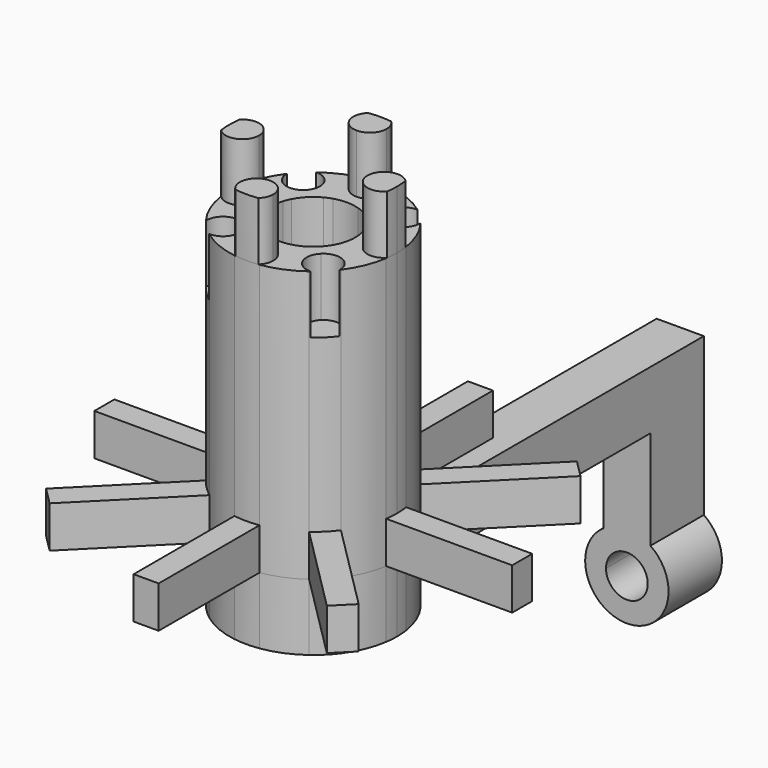
from build123d import *

# Parameters (mm, degrees)
F2_DEPTH  = 32.5
F3_DEPTH  = 5
F5_DEPTH  = 7
F6_DEPTH  = 7
F7_DEPTH  = 8
F0_W      = 5.6568542495
F0_H      = 7
F8_DEPTH  = 55
F9_DEPTH  = 25
F10_W     = 5.6568542495
F10_H     = 8
F11_DEPTH = 20
F12_DEPTH = 8
F14_DEPTH = 8
F15_DEPTH = 8


with BuildPart() as f2:
    # F1 (on Top) → F2 (new body)
    with BuildSketch(Plane.XY):
        with BuildLine():
            Line((9.937429245, -1.5), (4.8220846115, -1.5))
            ThreePointArc((4.8220846115, -1.5), (4.6655916392, -1.9325513334), (4.4703889, -2.3490685564))
            Line((4.4703889, -2.3490685564), (8.0874837785, -5.9661634349))
            ThreePointArc((8.0874837785, -5.9661634349), (9.2849893017, -3.8459684953), (9.937429245, -1.5))
        make_face()
        with BuildLine():
            Line((8.0874837785, -5.9661634349), (4.4703889, -2.3490685564))
            ThreePointArc((4.4703889, -2.3490685564), (3.570889245, -3.570889245), (2.3490685564, -4.4703889))
            Line((2.3490685564, -4.4703889), (5.9661634349, -8.0874837785))
            ThreePointArc((5.9661634349, -8.0874837785), (7.1064231509, -7.1064231509), (8.0874837785, -5.9661634349))
        make_face()
        with BuildLine():
            Line((5.9661634349, -8.0874837785), (2.3490685564, -4.4703889))
            ThreePointArc((2.3490685564, -4.4703889), (1.9325513334, -4.6655916392), (1.5, -4.8220846115))
            Line((1.5, -4.8220846115), (1.5, -7.3994932259))
            Line((1.5, -7.3994932259), (1.5, -9.937429245))
            ThreePointArc((1.5, -9.937429245), (3.8459684953, -9.2849893017), (5.9661634349, -8.0874837785))
        make_face()
        with BuildLine():
            Line((1.5, -7.3994932259), (1.5, -4.8220846115))
            ThreePointArc((1.5, -4.8220846115), (0, -5.05), (-1.5, -4.8220846115))
            Line((-1.5, -4.8220846115), (-1.5, -7.3994932259))
            Line((-1.5, -7.3994932259), (1.5, -7.3994932259))
        make_face()
        with BuildLine():
            Line((-1.5, -7.3994932259), (-1.5, -4.8220846115))
            ThreePointArc((-1.5, -4.8220846115), (-1.9325513334, -4.6655916392), (-2.3490685564, -4.4703889))
            Line((-2.3490685564, -4.4703889), (-5.9661634349, -8.0874837785))
            ThreePointArc((-5.9661634349, -8.0874837785), (-3.8459684953, -9.2849893017), (-1.5, -9.937429245))
            Line((-1.5, -9.937429245), (-1.5, -7.3994932259))
        make_face()
        with BuildLine():
            Line((-5.9661634349, -8.0874837785), (-2.3490685564, -4.4703889))
            ThreePointArc((-2.3490685564, -4.4703889), (-3.570889245, -3.570889245), (-4.4703889, -2.3490685564))
            Line((-4.4703889, -2.3490685564), (-8.0874837785, -5.9661634349))
            ThreePointArc((-8.0874837785, -5.9661634349), (-7.1064231509, -7.1064231509), (-5.9661634349, -8.0874837785))
        make_face()
        with BuildLine():
            Line((-8.0874837785, -5.9661634349), (-4.4703889, -2.3490685564))
            ThreePointArc((-4.4703889, -2.3490685564), (-4.6655916392, -1.9325513334), (-4.8220846115, -1.5))
            Line((-4.8220846115, -1.5), (-9.937429245, -1.5))
            ThreePointArc((-9.937429245, -1.5), (-9.2849893017, -3.8459684953), (-8.0874837785, -5.9661634349))
        make_face()
        with BuildLine():
            ThreePointArc((-4.8220846115, -1.5), (-5.05, 0), (-4.8220846115, 1.5))
            Line((-4.8220846115, 1.5), (-9.937429245, 1.5))
            ThreePointArc((-9.937429245, 1.5), (-10.05, 0), (-9.937429245, -1.5))
            Line((-9.937429245, -1.5), (-4.8220846115, -1.5))
        make_face()
        with BuildLine():
            ThreePointArc((-4.8220846115, 1.5), (-4.6655916392, 1.9325513334), (-4.4703889, 2.3490685564))
            Line((-4.4703889, 2.3490685564), (-8.0874837785, 5.9661634349))
            ThreePointArc((-8.0874837785, 5.9661634349), (-9.2849893017, 3.8459684953), (-9.937429245, 1.5))
            Line((-9.937429245, 1.5), (-4.8220846115, 1.5))
        make_face()
        with BuildLine():
            ThreePointArc((-4.4703889, 2.3490685564), (-3.570889245, 3.570889245), (-2.3490685564, 4.4703889))
            Line((-2.3490685564, 4.4703889), (-5.9661634349, 8.0874837785))
            ThreePointArc((-5.9661634349, 8.0874837785), (-7.1064231509, 7.1064231509), (-8.0874837785, 5.9661634349))
            Line((-8.0874837785, 5.9661634349), (-4.4703889, 2.3490685564))
        make_face()
        with BuildLine():
            ThreePointArc((-2.3490685564, 4.4703889), (-1.9325513334, 4.6655916392), (-1.5, 4.8220846115))
            Line((-1.5, 4.8220846115), (-1.5, 7.3994932259))
            Line((-1.5, 7.3994932259), (-1.5, 9.937429245))
            ThreePointArc((-1.5, 9.937429245), (-3.8459684953, 9.2849893017), (-5.9661634349, 8.0874837785))
            Line((-5.9661634349, 8.0874837785), (-2.3490685564, 4.4703889))
        make_face()
        with BuildLine():
            ThreePointArc((-1.5, 4.8220846115), (0, 5.05), (1.5, 4.8220846115))
            Line((1.5, 4.8220846115), (1.5, 7.3994932259))
            Line((1.5, 7.3994932259), (-1.5, 7.3994932259))
            Line((-1.5, 7.3994932259), (-1.5, 4.8220846115))
        make_face()
        with BuildLine():
            ThreePointArc((1.5, 4.8220846115), (1.9325513334, 4.6655916392), (2.3490685564, 4.4703889))
            Line((2.3490685564, 4.4703889), (5.9661634349, 8.0874837785))
            ThreePointArc((5.9661634349, 8.0874837785), (3.8459684953, 9.2849893017), (1.5, 9.937429245))
            Line((1.5, 9.937429245), (1.5, 7.3994932259))
            Line((1.5, 7.3994932259), (1.5, 4.8220846115))
        make_face()
        with BuildLine():
            ThreePointArc((2.3490685564, 4.4703889), (3.570889245, 3.570889245), (4.4703889, 2.3490685564))
            Line((4.4703889, 2.3490685564), (8.0874837785, 5.9661634349))
            ThreePointArc((8.0874837785, 5.9661634349), (7.1064231509, 7.1064231509), (5.9661634349, 8.0874837785))
            Line((5.9661634349, 8.0874837785), (2.3490685564, 4.4703889))
        make_face()
        with BuildLine():
            ThreePointArc((4.4703889, 2.3490685564), (4.6655916392, 1.9325513334), (4.8220846115, 1.5))
            Line((4.8220846115, 1.5), (9.937429245, 1.5))
            ThreePointArc((9.937429245, 1.5), (9.2849893017, 3.8459684953), (8.0874837785, 5.9661634349))
            Line((8.0874837785, 5.9661634349), (4.4703889, 2.3490685564))
        make_face()
        with BuildLine():
            ThreePointArc((4.8220846115, 1.5), (4.9926960296, 0.7586081703), (5.05, 0))
            ThreePointArc((5.05, 0), (4.9926960296, -0.7586081703), (4.8220846115, -1.5))
            Line((4.8220846115, -1.5), (9.937429245, -1.5))
            ThreePointArc((9.937429245, -1.5), (10.021817797, -0.7521090637), (10.05, 0))
            ThreePointArc((10.05, 0), (10.021817797, 0.7521090637), (9.937429245, 1.5))
            Line((9.937429245, 1.5), (4.8220846115, 1.5))
        make_face()
        with BuildLine():
            Line((1.5, -9.937429245), (1.5, -7.3994932259))
            Line((1.5, -7.3994932259), (-1.5, -7.3994932259))
            Line((-1.5, -7.3994932259), (-1.5, -9.937429245))
            ThreePointArc((-1.5, -9.937429245), (0, -10.05), (1.5, -9.937429245))
        make_face()
        with BuildLine():
            Line((-1.5, 7.3994932259), (1.5, 7.3994932259))
            Line((1.5, 7.3994932259), (1.5, 9.937429245))
            ThreePointArc((1.5, 9.937429245), (0, 10.05), (-1.5, 9.937429245))
            Line((-1.5, 9.937429245), (-1.5, 7.3994932259))
        make_face()
    extrude(amount=F2_DEPTH)

    # F1 (on Top) → F3 (join)
    with BuildSketch(Plane.XY):
        with BuildLine():
            ThreePointArc((-9.937429245, -1.5), (-10.05, 0), (-9.937429245, 1.5))
            Line((-9.937429245, 1.5), (-25.05, 1.5))
            Line((-25.05, 1.5), (-25.05, -1.5))
            Line((-25.05, -1.5), (-9.937429245, -1.5))
        make_face()
        with BuildLine():
            Line((-16.6205798865, -18.7419002301), (-5.9661634349, -8.0874837785))
            ThreePointArc((-5.9661634349, -8.0874837785), (-7.1064231509, -7.1064231509), (-8.0874837785, -5.9661634349))
            Line((-8.0874837785, -5.9661634349), (-18.7419002301, -16.6205798865))
            Line((-18.7419002301, -16.6205798865), (-16.6205798865, -18.7419002301))
        make_face()
        with BuildLine():
            Line((1.5, -25.05), (1.5, -9.937429245))
            ThreePointArc((1.5, -9.937429245), (0, -10.05), (-1.5, -9.937429245))
            Line((-1.5, -9.937429245), (-1.5, -25.05))
            Line((-1.5, -25.05), (1.5, -25.05))
        make_face()
        with BuildLine():
            Line((18.7419002301, -16.6205798865), (8.0874837785, -5.9661634349))
            ThreePointArc((8.0874837785, -5.9661634349), (7.1064231509, -7.1064231509), (5.9661634349, -8.0874837785))
            Line((5.9661634349, -8.0874837785), (16.6205798865, -18.7419002301))
            Line((16.6205798865, -18.7419002301), (18.7419002301, -16.6205798865))
        make_face()
        with BuildLine():
            Line((25.05, 1.5), (9.937429245, 1.5))
            ThreePointArc((9.937429245, 1.5), (10.021817797, 0.7521090637), (10.05, 0))
            ThreePointArc((10.05, 0), (10.021817797, -0.7521090637), (9.937429245, -1.5))
            Line((9.937429245, -1.5), (25.05, -1.5))
            Line((25.05, -1.5), (25.05, 1.5))
        make_face()
        with BuildLine():
            ThreePointArc((5.9661634349, 8.0874837785), (7.1064231509, 7.1064231509), (8.0874837785, 5.9661634349))
            Line((8.0874837785, 5.9661634349), (18.7419002301, 16.6205798865))
            Line((18.7419002301, 16.6205798865), (16.6205798865, 18.7419002301))
            Line((16.6205798865, 18.7419002301), (5.9661634349, 8.0874837785))
        make_face()
        with BuildLine():
            ThreePointArc((-1.5, 9.937429245), (0, 10.05), (1.5, 9.937429245))
            Line((1.5, 9.937429245), (1.5, 25.05))
            Line((1.5, 25.05), (-1.5, 25.05))
            Line((-1.5, 25.05), (-1.5, 9.937429245))
        make_face()
        with BuildLine():
            ThreePointArc((-8.0874837785, 5.9661634349), (-7.1064231509, 7.1064231509), (-5.9661634349, 8.0874837785))
            Line((-5.9661634349, 8.0874837785), (-16.6205798865, 18.7419002301))
            Line((-16.6205798865, 18.7419002301), (-18.7419002301, 16.6205798865))
            Line((-18.7419002301, 16.6205798865), (-8.0874837785, 5.9661634349))
        make_face()
    extrude(amount=F3_DEPTH)

    # F4 (on face) → F5 (join)
    with BuildSketch(Plane.XY.offset(32.5)):
        with BuildLine():
            ThreePointArc((2, -8.5), (1.4142135624, -7.0857864376), (0, -6.5))
            ThreePointArc((0, -6.5), (-1.8590399167, -7.7624563821), (-1.3711230259, -9.9560294118))
            ThreePointArc((-1.3711230259, -9.9560294118), (0, -10.05), (1.3711230259, -9.9560294118))
            ThreePointArc((1.3711230259, -9.9560294118), (1.8360618252, -9.293017638), (2, -8.5))
        make_face()
        with BuildLine():
            ThreePointArc((-1.3711230259, 9.9560294118), (-1.8590399167, 7.7624563821), (0, 6.5))
            ThreePointArc((0, 6.5), (1.4142135624, 7.0857864376), (2, 8.5))
            ThreePointArc((2, 8.5), (1.8360618252, 9.293017638), (1.3711230259, 9.9560294118))
            ThreePointArc((1.3711230259, 9.9560294118), (0, 10.05), (-1.3711230259, 9.9560294118))
        make_face()
        with BuildLine():
            ThreePointArc((-9.9560294118, -1.3711230259), (-7.7624563821, -1.8590399167), (-6.5, 0))
            ThreePointArc((-6.5, 0), (-7.7624563821, 1.8590399167), (-9.9560294118, 1.3711230259))
            ThreePointArc((-9.9560294118, 1.3711230259), (-10.05, 0), (-9.9560294118, -1.3711230259))
        make_face()
        with BuildLine():
            ThreePointArc((9.9560294118, 1.3711230259), (7.7624563821, 1.8590399167), (6.5, 0))
            ThreePointArc((6.5, 0), (7.7624563821, -1.8590399167), (9.9560294118, -1.3711230259))
            ThreePointArc((9.9560294118, -1.3711230259), (10.0264798306, -0.6871697068), (10.05, 0))
            ThreePointArc((10.05, 0), (10.0264798306, 0.6871697068), (9.9560294118, 1.3711230259))
        make_face()
    extrude(amount=F5_DEPTH)

    # F4 (on face) → F6 (cut)
    with BuildSketch(Plane.XY.offset(32.5)):
        with BuildLine():
            ThreePointArc((-4.0104076401, -6.0104076401), (-4.1626485751, -5.2450407754), (-4.5961940777, -4.5961940777))
            ThreePointArc((-4.5961940777, -4.5961940777), (-6.8034252781, -4.1743458149), (-8.0095063002, -6.0704455213))
            ThreePointArc((-8.0095063002, -6.0704455213), (-7.1064231509, -7.1064231509), (-6.0704455213, -8.0095063002))
            ThreePointArc((-6.0704455213, -8.0095063002), (-4.617582411, -7.445690846), (-4.0104076401, -6.0104076401))
        make_face()
        with BuildLine():
            ThreePointArc((8.0104076401, -6.0104076401), (6.7757745048, -4.1626485751), (4.5961940777, -4.5961940777))
            ThreePointArc((4.5961940777, -4.5961940777), (4.1743458149, -6.8034252781), (6.0704455213, -8.0095063002))
            ThreePointArc((6.0704455213, -8.0095063002), (7.1064231509, -7.1064231509), (8.0095063002, -6.0704455213))
            ThreePointArc((8.0095063002, -6.0704455213), (8.0101822924, -6.0404299634), (8.0104076401, -6.0104076401))
        make_face()
        with BuildLine():
            ThreePointArc((6.0704455213, 8.0095063002), (4.1743458149, 6.8034252781), (4.5961940777, 4.5961940777))
            ThreePointArc((4.5961940777, 4.5961940777), (6.7757745048, 4.1626485751), (8.0104076401, 6.0104076401))
            ThreePointArc((8.0104076401, 6.0104076401), (8.0101822924, 6.0404299634), (8.0095063002, 6.0704455213))
            ThreePointArc((8.0095063002, 6.0704455213), (7.1064231509, 7.1064231509), (6.0704455213, 8.0095063002))
        make_face()
        with BuildLine():
            ThreePointArc((-8.0095063002, 6.0704455213), (-6.8034252781, 4.1743458149), (-4.5961940777, 4.5961940777))
            ThreePointArc((-4.5961940777, 4.5961940777), (-4.1626485751, 5.2450407754), (-4.0104076401, 6.0104076401))
            ThreePointArc((-4.0104076401, 6.0104076401), (-4.617582411, 7.445690846), (-6.0704455213, 8.0095063002))
            ThreePointArc((-6.0704455213, 8.0095063002), (-7.1064231509, 7.1064231509), (-8.0095063002, 6.0704455213))
        make_face()
    extrude(amount=-F6_DEPTH, mode=Mode.SUBTRACT)


with BuildPart() as f7:
    # F1 (on Top) → F7 (new body)
    with BuildSketch(Plane.XY):
        with BuildLine():
            Line((-8.0874837785, -5.9661634349), (-4.4703889, -2.3490685564))
            ThreePointArc((-4.4703889, -2.3490685564), (-4.6655916392, -1.9325513334), (-4.8220846115, -1.5))
            Line((-4.8220846115, -1.5), (-9.937429245, -1.5))
            ThreePointArc((-9.937429245, -1.5), (-9.2849893017, -3.8459684953), (-8.0874837785, -5.9661634349))
        make_face()
        with BuildLine():
            Line((-5.9661634349, -8.0874837785), (-2.3490685564, -4.4703889))
            ThreePointArc((-2.3490685564, -4.4703889), (-3.570889245, -3.570889245), (-4.4703889, -2.3490685564))
            Line((-4.4703889, -2.3490685564), (-8.0874837785, -5.9661634349))
            ThreePointArc((-8.0874837785, -5.9661634349), (-7.1064231509, -7.1064231509), (-5.9661634349, -8.0874837785))
        make_face()
        with BuildLine():
            Line((-1.5, -7.3994932259), (-1.5, -4.8220846115))
            ThreePointArc((-1.5, -4.8220846115), (-1.9325513334, -4.6655916392), (-2.3490685564, -4.4703889))
            Line((-2.3490685564, -4.4703889), (-5.9661634349, -8.0874837785))
            ThreePointArc((-5.9661634349, -8.0874837785), (-3.8459684953, -9.2849893017), (-1.5, -9.937429245))
            Line((-1.5, -9.937429245), (-1.5, -7.3994932259))
        make_face()
        with BuildLine():
            Line((5.9661634349, -8.0874837785), (2.3490685564, -4.4703889))
            ThreePointArc((2.3490685564, -4.4703889), (1.9325513334, -4.6655916392), (1.5, -4.8220846115))
            Line((1.5, -4.8220846115), (1.5, -7.3994932259))
            Line((1.5, -7.3994932259), (1.5, -9.937429245))
            ThreePointArc((1.5, -9.937429245), (3.8459684953, -9.2849893017), (5.9661634349, -8.0874837785))
        make_face()
        with BuildLine():
            Line((8.0874837785, -5.9661634349), (4.4703889, -2.3490685564))
            ThreePointArc((4.4703889, -2.3490685564), (3.570889245, -3.570889245), (2.3490685564, -4.4703889))
            Line((2.3490685564, -4.4703889), (5.9661634349, -8.0874837785))
            ThreePointArc((5.9661634349, -8.0874837785), (7.1064231509, -7.1064231509), (8.0874837785, -5.9661634349))
        make_face()
        with BuildLine():
            Line((9.937429245, -1.5), (4.8220846115, -1.5))
            ThreePointArc((4.8220846115, -1.5), (4.6655916392, -1.9325513334), (4.4703889, -2.3490685564))
            Line((4.4703889, -2.3490685564), (8.0874837785, -5.9661634349))
            ThreePointArc((8.0874837785, -5.9661634349), (9.2849893017, -3.8459684953), (9.937429245, -1.5))
        make_face()
        with BuildLine():
            ThreePointArc((4.8220846115, 1.5), (4.9926960296, 0.7586081703), (5.05, 0))
            ThreePointArc((5.05, 0), (4.9926960296, -0.7586081703), (4.8220846115, -1.5))
            Line((4.8220846115, -1.5), (9.937429245, -1.5))
            ThreePointArc((9.937429245, -1.5), (10.021817797, -0.7521090637), (10.05, 0))
            ThreePointArc((10.05, 0), (10.021817797, 0.7521090637), (9.937429245, 1.5))
            Line((9.937429245, 1.5), (4.8220846115, 1.5))
        make_face()
        with BuildLine():
            ThreePointArc((4.4703889, 2.3490685564), (4.6655916392, 1.9325513334), (4.8220846115, 1.5))
            Line((4.8220846115, 1.5), (9.937429245, 1.5))
            ThreePointArc((9.937429245, 1.5), (9.2849893017, 3.8459684953), (8.0874837785, 5.9661634349))
            Line((8.0874837785, 5.9661634349), (4.4703889, 2.3490685564))
        make_face()
        with BuildLine():
            ThreePointArc((2.3490685564, 4.4703889), (3.570889245, 3.570889245), (4.4703889, 2.3490685564))
            Line((4.4703889, 2.3490685564), (8.0874837785, 5.9661634349))
            ThreePointArc((8.0874837785, 5.9661634349), (7.1064231509, 7.1064231509), (5.9661634349, 8.0874837785))
            Line((5.9661634349, 8.0874837785), (2.3490685564, 4.4703889))
        make_face()
        with BuildLine():
            ThreePointArc((1.5, 4.8220846115), (1.9325513334, 4.6655916392), (2.3490685564, 4.4703889))
            Line((2.3490685564, 4.4703889), (5.9661634349, 8.0874837785))
            ThreePointArc((5.9661634349, 8.0874837785), (3.8459684953, 9.2849893017), (1.5, 9.937429245))
            Line((1.5, 9.937429245), (1.5, 7.3994932259))
            Line((1.5, 7.3994932259), (1.5, 4.8220846115))
        make_face()
        with BuildLine():
            ThreePointArc((-2.3490685564, 4.4703889), (-1.9325513334, 4.6655916392), (-1.5, 4.8220846115))
            Line((-1.5, 4.8220846115), (-1.5, 7.3994932259))
            Line((-1.5, 7.3994932259), (-1.5, 9.937429245))
            ThreePointArc((-1.5, 9.937429245), (-3.8459684953, 9.2849893017), (-5.9661634349, 8.0874837785))
            Line((-5.9661634349, 8.0874837785), (-2.3490685564, 4.4703889))
        make_face()
        with BuildLine():
            ThreePointArc((-4.4703889, 2.3490685564), (-3.570889245, 3.570889245), (-2.3490685564, 4.4703889))
            Line((-2.3490685564, 4.4703889), (-5.9661634349, 8.0874837785))
            ThreePointArc((-5.9661634349, 8.0874837785), (-7.1064231509, 7.1064231509), (-8.0874837785, 5.9661634349))
            Line((-8.0874837785, 5.9661634349), (-4.4703889, 2.3490685564))
        make_face()
        with BuildLine():
            ThreePointArc((-4.8220846115, 1.5), (-4.6655916392, 1.9325513334), (-4.4703889, 2.3490685564))
            Line((-4.4703889, 2.3490685564), (-8.0874837785, 5.9661634349))
            ThreePointArc((-8.0874837785, 5.9661634349), (-9.2849893017, 3.8459684953), (-9.937429245, 1.5))
            Line((-9.937429245, 1.5), (-4.8220846115, 1.5))
        make_face()
        with BuildLine():
            ThreePointArc((-4.8220846115, -1.5), (-5.05, 0), (-4.8220846115, 1.5))
            Line((-4.8220846115, 1.5), (-9.937429245, 1.5))
            ThreePointArc((-9.937429245, 1.5), (-10.05, 0), (-9.937429245, -1.5))
            Line((-9.937429245, -1.5), (-4.8220846115, -1.5))
        make_face()
        with BuildLine():
            Line((-1.5, 7.3994932259), (1.5, 7.3994932259))
            Line((1.5, 7.3994932259), (1.5, 9.937429245))
            ThreePointArc((1.5, 9.937429245), (0, 10.05), (-1.5, 9.937429245))
            Line((-1.5, 9.937429245), (-1.5, 7.3994932259))
        make_face()
        with BuildLine():
            Line((1.5, -9.937429245), (1.5, -7.3994932259))
            Line((1.5, -7.3994932259), (-1.5, -7.3994932259))
            Line((-1.5, -7.3994932259), (-1.5, -9.937429245))
            ThreePointArc((-1.5, -9.937429245), (0, -10.05), (1.5, -9.937429245))
        make_face()
    extrude(amount=-F7_DEPTH)

    # F0 (on Front) → F8 (join)
    with BuildSketch(Plane.XZ):
        with Locations((0, -4.5)):
            Rectangle(F0_W, F0_H)
    extrude(amount=-F8_DEPTH)

    # F1 (on Top) → F9 (cut)
    with BuildSketch(Plane.XY):
        Polygon((2.1213203436, 0), (3.6213203436, 1.5), (1.5, 1.5), (1.5, 0.6213203436), align=None)
        with BuildLine():
            ThreePointArc((-4.4703889, -2.3490685564), (-3.570889245, -3.570889245), (-2.3490685564, -4.4703889))
            Line((-2.3490685564, -4.4703889), (-1.5, -3.6213203436))
            Line((-1.5, -3.6213203436), (-1.5, -1.5))
            Line((-1.5, -1.5), (-3.6213203436, -1.5))
            Line((-3.6213203436, -1.5), (-4.4703889, -2.3490685564))
        make_face()
        with BuildLine():
            Line((-2.1213203436, 0), (-3.6213203436, 1.5))
            Line((-3.6213203436, 1.5), (-4.8220846115, 1.5))
            ThreePointArc((-4.8220846115, 1.5), (-5.05, 0), (-4.8220846115, -1.5))
            Line((-4.8220846115, -1.5), (-3.6213203436, -1.5))
            Line((-3.6213203436, -1.5), (-2.1213203436, 0))
        make_face()
        Polygon((-1.5, 0.6213203436), (-1.5, 1.5), (-3.6213203436, 1.5), (-2.1213203436, 0), align=None)
        with BuildLine():
            Line((-1.5, 3.6213203436), (-2.3490685564, 4.4703889))
            ThreePointArc((-2.3490685564, 4.4703889), (-3.570889245, 3.570889245), (-4.4703889, 2.3490685564))
            Line((-4.4703889, 2.3490685564), (-3.6213203436, 1.5))
            Line((-3.6213203436, 1.5), (-1.5, 1.5))
            Line((-1.5, 1.5), (-1.5, 3.6213203436))
        make_face()
        Polygon((-0.6213203436, 1.5), (0, 2.1213203436), (-1.5, 3.6213203436), (-1.5, 1.5), align=None)
        with BuildLine():
            Line((1.5, 3.6213203436), (1.5, 4.8220846115))
            ThreePointArc((1.5, 4.8220846115), (0, 5.05), (-1.5, 4.8220846115))
            Line((-1.5, 4.8220846115), (-1.5, 3.6213203436))
            Line((-1.5, 3.6213203436), (0, 2.1213203436))
            Line((0, 2.1213203436), (1.5, 3.6213203436))
        make_face()
        Polygon((0.6213203436, 1.5), (1.5, 1.5), (1.5, 3.6213203436), (0, 2.1213203436), align=None)
        with BuildLine():
            Line((3.6213203436, 1.5), (4.4703889, 2.3490685564))
            ThreePointArc((4.4703889, 2.3490685564), (3.570889245, 3.570889245), (2.3490685564, 4.4703889))
            Line((2.3490685564, 4.4703889), (1.5, 3.6213203436))
            Line((1.5, 3.6213203436), (1.5, 1.5))
            Line((1.5, 1.5), (3.6213203436, 1.5))
        make_face()
        with BuildLine():
            Line((1.5, 3.6213203436), (2.3490685564, 4.4703889))
            ThreePointArc((2.3490685564, 4.4703889), (1.9325513334, 4.6655916392), (1.5, 4.8220846115))
            Line((1.5, 4.8220846115), (1.5, 3.6213203436))
        make_face()
        with BuildLine():
            Line((-1.5, 3.6213203436), (-1.5, 4.8220846115))
            ThreePointArc((-1.5, 4.8220846115), (-1.9325513334, 4.6655916392), (-2.3490685564, 4.4703889))
            Line((-2.3490685564, 4.4703889), (-1.5, 3.6213203436))
        make_face()
        Polygon((1.5, 0.6213203436), (1.5, 1.5), (0.6213203436, 1.5), align=None)
        Polygon((-0.6213203436, 1.5), (0.6213203436, 1.5), (0, 2.1213203436), align=None)
        Polygon((-1.5, 0.6213203436), (-0.6213203436, 1.5), (-1.5, 1.5), align=None)
        Polygon((1.5, -0.6213203436), (1.5, 0.6213203436), (0.6213203436, 1.5), (-0.6213203436, 1.5), (-1.5, 0.6213203436), (-1.5, -0.6213203436), (-0.6213203436, -1.5), (0.6213203436, -1.5), align=None)
        Polygon((-1.5, -1.5), (-0.6213203436, -1.5), (-1.5, -0.6213203436), align=None)
        Polygon((-3.6213203436, -1.5), (-1.5, -1.5), (-1.5, -0.6213203436), (-2.1213203436, 0), align=None)
        Polygon((-1.5, -0.6213203436), (-1.5, 0.6213203436), (-2.1213203436, 0), align=None)
        Polygon((-1.5, -3.6213203436), (0, -2.1213203436), (-0.6213203436, -1.5), (-1.5, -1.5), align=None)
        Polygon((1.5, -3.6213203436), (1.5, -1.5), (0.6213203436, -1.5), (0, -2.1213203436), align=None)
        Polygon((0, -2.1213203436), (0.6213203436, -1.5), (-0.6213203436, -1.5), align=None)
        with BuildLine():
            ThreePointArc((2.3490685564, -4.4703889), (3.570889245, -3.570889245), (4.4703889, -2.3490685564))
            Line((4.4703889, -2.3490685564), (3.6213203436, -1.5))
            Line((3.6213203436, -1.5), (1.5, -1.5))
            Line((1.5, -1.5), (1.5, -3.6213203436))
            Line((1.5, -3.6213203436), (2.3490685564, -4.4703889))
        make_face()
        Polygon((1.5, -1.5), (3.6213203436, -1.5), (2.1213203436, 0), (1.5, -0.6213203436), align=None)
        Polygon((0.6213203436, -1.5), (1.5, -1.5), (1.5, -0.6213203436), align=None)
        Polygon((1.5, -0.6213203436), (2.1213203436, 0), (1.5, 0.6213203436), align=None)
        with BuildLine():
            ThreePointArc((4.8220846115, -1.5), (4.9926960296, -0.7586081703), (5.05, 0))
            ThreePointArc((5.05, 0), (4.9926960296, 0.7586081703), (4.8220846115, 1.5))
            Line((4.8220846115, 1.5), (3.6213203436, 1.5))
            Line((3.6213203436, 1.5), (2.1213203436, 0))
            Line((2.1213203436, 0), (3.6213203436, -1.5))
            Line((3.6213203436, -1.5), (4.8220846115, -1.5))
        make_face()
        with BuildLine():
            Line((-3.6213203436, 1.5), (-4.4703889, 2.3490685564))
            ThreePointArc((-4.4703889, 2.3490685564), (-4.6655916392, 1.9325513334), (-4.8220846115, 1.5))
            Line((-4.8220846115, 1.5), (-3.6213203436, 1.5))
        make_face()
        with BuildLine():
            Line((3.6213203436, 1.5), (4.8220846115, 1.5))
            ThreePointArc((4.8220846115, 1.5), (4.6655916392, 1.9325513334), (4.4703889, 2.3490685564))
            Line((4.4703889, 2.3490685564), (3.6213203436, 1.5))
        make_face()
        with BuildLine():
            ThreePointArc((4.4703889, -2.3490685564), (4.6655916392, -1.9325513334), (4.8220846115, -1.5))
            Line((4.8220846115, -1.5), (3.6213203436, -1.5))
            Line((3.6213203436, -1.5), (4.4703889, -2.3490685564))
        make_face()
        with BuildLine():
            ThreePointArc((-4.8220846115, -1.5), (-4.6655916392, -1.9325513334), (-4.4703889, -2.3490685564))
            Line((-4.4703889, -2.3490685564), (-3.6213203436, -1.5))
            Line((-3.6213203436, -1.5), (-4.8220846115, -1.5))
        make_face()
    extrude(amount=-F9_DEPTH, mode=Mode.SUBTRACT)

    # F10 (on face) → F11 (join)
    with BuildSketch(Plane(origin=(0, 0, -8), x_dir=(1, 0, 0), z_dir=(0, 0, -1))):
        with Locations((0, -51)):
            Rectangle(F10_W, F10_H)
    extrude(amount=F11_DEPTH)

    # F1 (on Top) → F12 (cut)
    with BuildSketch(Plane.XY):
        with BuildLine():
            ThreePointArc((-1.5, 4.8220846115), (0, 5.05), (1.5, 4.8220846115))
            Line((1.5, 4.8220846115), (1.5, 7.3994932259))
            Line((1.5, 7.3994932259), (-1.5, 7.3994932259))
            Line((-1.5, 7.3994932259), (-1.5, 4.8220846115))
        make_face()
    extrude(amount=-F12_DEPTH, mode=Mode.SUBTRACT)

    # F13 (on face) → F14 (join)
    with BuildSketch(Plane(origin=(0, 55, 0), x_dir=(-1, 0, 0), z_dir=(0, 1, 0))):
        with BuildLine():
            ThreePointArc((5, -24), (4.4239199599, -21.6699930927), (2.8284271247, -19.8768943744))
            Line((2.8284271247, -19.8768943744), (2.8284271247, -28))
            Line((2.8284271247, -28), (-2.8284271247, -28))
            Line((-2.8284271247, -28), (-2.8284271247, -19.8768943744))
            ThreePointArc((-2.8284271247, -19.8768943744), (-2.3300069073, -28.4239199599), (5, -24))
        make_face()
    extrude(amount=-F14_DEPTH)

    # F13 (on face) → F15 (cut)
    with BuildSketch(Plane(origin=(0, 55, 0), x_dir=(-1, 0, 0), z_dir=(0, 1, 0))):
        with BuildLine():
            ThreePointArc((2.5, -24), (1.767766953, -22.232233047), (0, -21.5))
            ThreePointArc((0, -21.5), (-1.767766953, -25.767766953), (2.5, -24))
        make_face()
    extrude(amount=-F15_DEPTH, mode=Mode.SUBTRACT)


solid = Compound([f2.part, f7.part])
